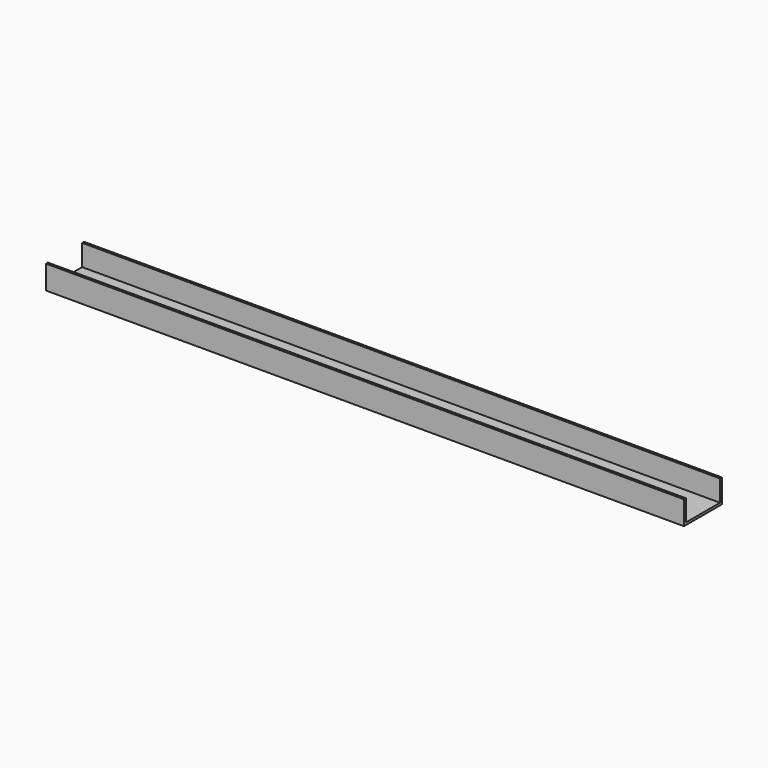
from build123d import *

# Parameters (mm, degrees)
F1_DEPTH      = 134.5
F1_DEPTH_BACK = 134.5
F2_R          = 2.5
F3_DEPTH      = 1
F3_TAPER      = -47.3248299171


with BuildPart() as f1:
    # F0 (on Right) → F1 (new body, two sides)
    with BuildSketch(Plane.YZ) as f1_sk:
        Polygon((-10, -5), (10, -5), (10, 5), (9, 5), (9, -4), (-9, -4), (-9, 5), (-10, 5), align=None)
    extrude(amount=F1_DEPTH)
    extrude(f1_sk.sketch, amount=-F1_DEPTH_BACK)

    # F2 (on face) → F3 (cut)
    with BuildSketch(Plane(origin=(0, 0, -5), x_dir=(1, 0, 0), z_dir=(0, 0, -1))):
        with Locations((-124, 0)):
            Circle(F2_R)
        with Locations((-95, 0)):
            Circle(F2_R)
    extrude(amount=-F3_DEPTH, taper=F3_TAPER, mode=Mode.SUBTRACT)


solid = f1.part
